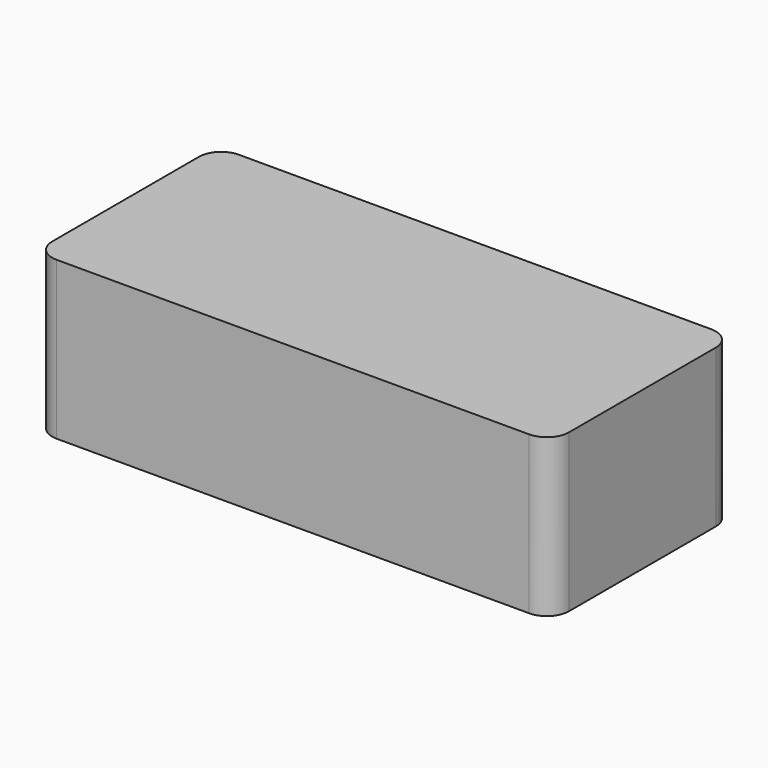
from build123d import *

# Parameters (mm, degrees)
F1_DEPTH = 100
F2_DEPTH = 2


with BuildPart() as f1:
    # F0 (on Top) → F1 (new body)
    with BuildSketch(Plane.XY):
        with BuildLine():
            Line((150.211289, 72.161628), (-149.788711, 72.161628))
            ThreePointArc((-149.788711, 72.161628), (-159.688206, 68.061123), (-163.788711, 58.161628))
            Line((-163.788711, 58.161628), (-163.788711, -58.340947))
            ThreePointArc((-163.788711, -58.340947), (-159.688206, -68.240442), (-149.788711, -72.340947))
            Line((-149.788711, -72.340947), (150.211289, -72.340947))
            ThreePointArc((150.211289, -72.340947), (160.110784, -68.240442), (164.211289, -58.340947))
            Line((164.211289, -58.340947), (164.211289, 58.161628))
            ThreePointArc((164.211289, 58.161628), (160.110784, 68.061123), (150.211289, 72.161628))
        make_face()
        with BuildLine():
            ThreePointArc((-156.788711, 58.161628), (-154.738458, 63.111376), (-149.788711, 65.161628))
            Line((-149.788711, 65.161628), (150.211289, 65.161628))
            ThreePointArc((150.211289, 65.161628), (155.161037, 63.111376), (157.211289, 58.161628))
            Line((157.211289, 58.161628), (157.211289, -58.340947))
            ThreePointArc((157.211289, -58.340947), (155.161037, -63.290695), (150.211289, -65.340947))
            Line((150.211289, -65.340947), (-149.788711, -65.340947))
            ThreePointArc((-149.788711, -65.340947), (-154.738458, -63.290695), (-156.788711, -58.340947))
            Line((-156.788711, -58.340947), (-156.788711, 58.161628))
        make_face(mode=Mode.SUBTRACT)
    extrude(amount=-F1_DEPTH)

    # F0 (on Top) → F2 (join)
    with BuildSketch(Plane.XY):
        with BuildLine():
            Line((150.211289, 65.161628), (-149.788711, 65.161628))
            ThreePointArc((-149.788711, 65.161628), (-154.738458, 63.111376), (-156.788711, 58.161628))
            Line((-156.788711, 58.161628), (-156.788711, -58.340947))
            ThreePointArc((-156.788711, -58.340947), (-154.738458, -63.290695), (-149.788711, -65.340947))
            Line((-149.788711, -65.340947), (150.211289, -65.340947))
            ThreePointArc((150.211289, -65.340947), (155.161037, -63.290695), (157.211289, -58.340947))
            Line((157.211289, -58.340947), (157.211289, 58.161628))
            ThreePointArc((157.211289, 58.161628), (155.161037, 63.111376), (150.211289, 65.161628))
        make_face()
    extrude(amount=-F2_DEPTH)


solid = f1.part
